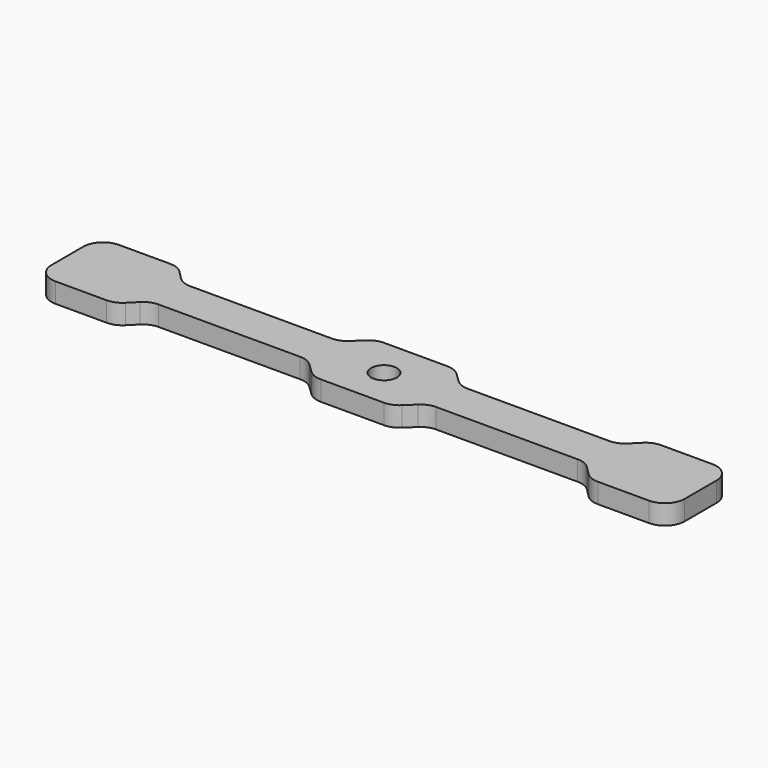
from build123d import *

# Parameters (mm, degrees)
F0_R     = 3.25
F1_DEPTH = 5
F2_R     = 5


with BuildPart() as f1:
    # F0 (on Top) → F1 (new body)
    with BuildSketch(Plane.XY):
        Polygon((-80, 10), (-80, -10), (-60, -10), (-55, -5), (-15.177652, -5), (-10, -10), (10, -10), (15.177652, -5), (55, -5), (60, -10), (80, -10), (80, 10), (60, 10), (55, 5), (15.177652, 5), (10, 10), (-10, 10), (-15.177652, 5), (-55, 5), (-60, 10), align=None)
        Circle(F0_R, mode=Mode.SUBTRACT)
    extrude(amount=F1_DEPTH)

    # F2
    f2_edges = [f1.edges().sort_by_distance(p)[0] for p in [
        (-80, -10, 2.5),
        (-55, -5, 2.5),
        (-10, -10, 2.5),
        (10, -10, 2.5),
        (15.177652, -5, 2.5),
        (60, -10, 2.5),
        (80, -10, 2.5),
        (80, 10, 2.5),
        (60, 10, 2.5),
        (10, 10, 2.5),
        (15.177652, 5, 2.5),
        (-55, 5, 2.5),
        (-60, 10, 2.5),
        (-80, 10, 2.5),
        (-10, 10, 2.5),
        (55, 5, 2.5),
        (-15.177652, 5, 2.5),
        (-15.177652, -5, 2.5),
        (55, -5, 2.5),
        (-60, -10, 2.5),
    ]]
    fillet(f2_edges, radius=F2_R)


solid = f1.part
